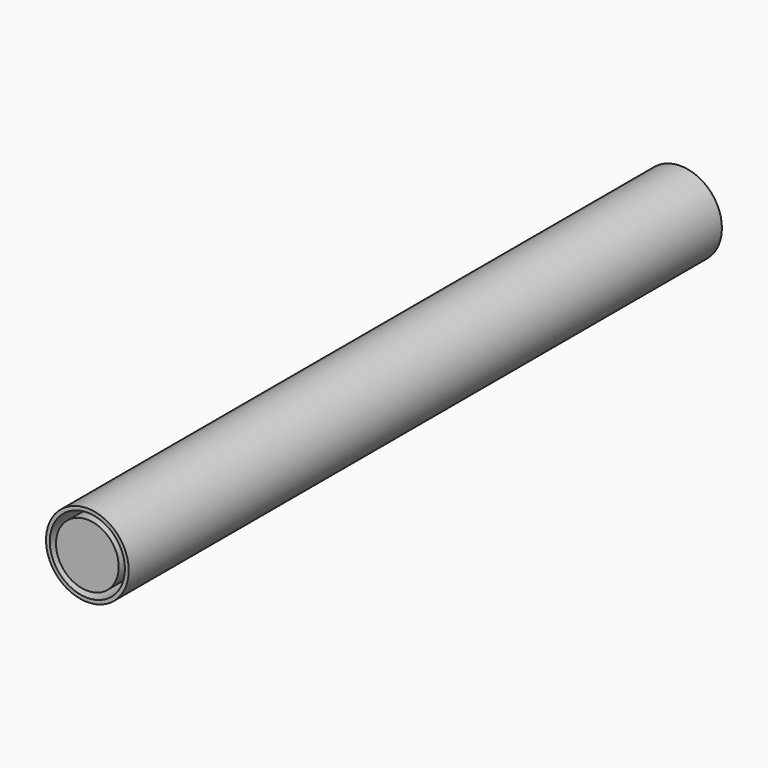
from build123d import *

# Parameters (mm, degrees)
F0_R     = 7.25
F1_DEPTH = 130
F2_R     = 6.5875
F3_DEPTH = 130
F4_R     = 5.5
F5_DEPTH = 130
F6_R     = 3.150908
F7_DEPTH = 130


with BuildPart() as f1:
    # F0 (on Front) → F1 (new body)
    with BuildSketch(Plane.XZ):
        Circle(F0_R)
    extrude(amount=F1_DEPTH)

    # F2 (on face) → F3 (cut)
    with BuildSketch(Plane.XZ.offset(130)):
        Circle(F2_R)
    extrude(amount=-F3_DEPTH, mode=Mode.SUBTRACT)


with BuildPart() as f5:
    # F4 (on Front) → F5 (new body)
    with BuildSketch(Plane.XZ):
        Circle(F4_R)
    extrude(amount=F5_DEPTH)

    # F6 (on face) → F7 (join)
    with BuildSketch(Plane.XZ.offset(130)):
        Circle(F6_R)
    extrude(amount=-F7_DEPTH)


solid = Compound([f1.part, f5.part])
